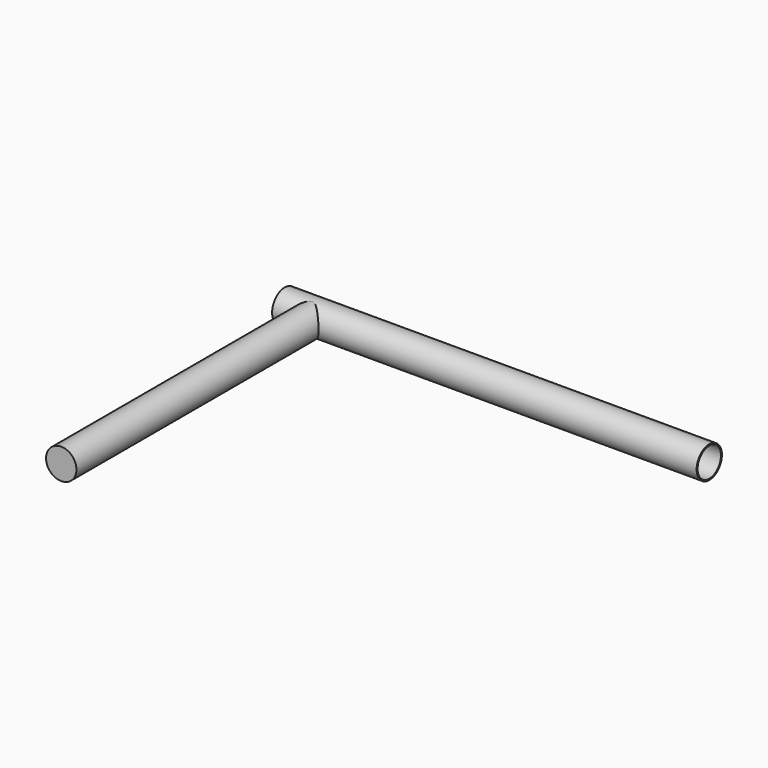
from build123d import *

# Parameters (mm, degrees)
F0_R     = 22.704104
F1_DEPTH = 609.6
F3_D     = 41.91
F4_R     = 21.826729
F5_DEPTH = 457.2


with BuildPart() as f1:
    # F0 (on Right) → F1 (new body)
    with BuildSketch(Plane.YZ):
        Circle(F0_R)
    extrude(amount=F1_DEPTH)

    # F3 (through all)
    with Locations(Plane(origin=(0, 0, 0), x_dir=(0, -1, 0), z_dir=(-1, 0, 0))):
        with Locations((0, 0)):
            Hole(F3_D / 2)

    # F4 (on Front) → F5 (join)
    with BuildSketch(Plane.XZ):
        with Locations((44.85634, 0)):
            Circle(F4_R)
    extrude(amount=F5_DEPTH)


solid = f1.part
